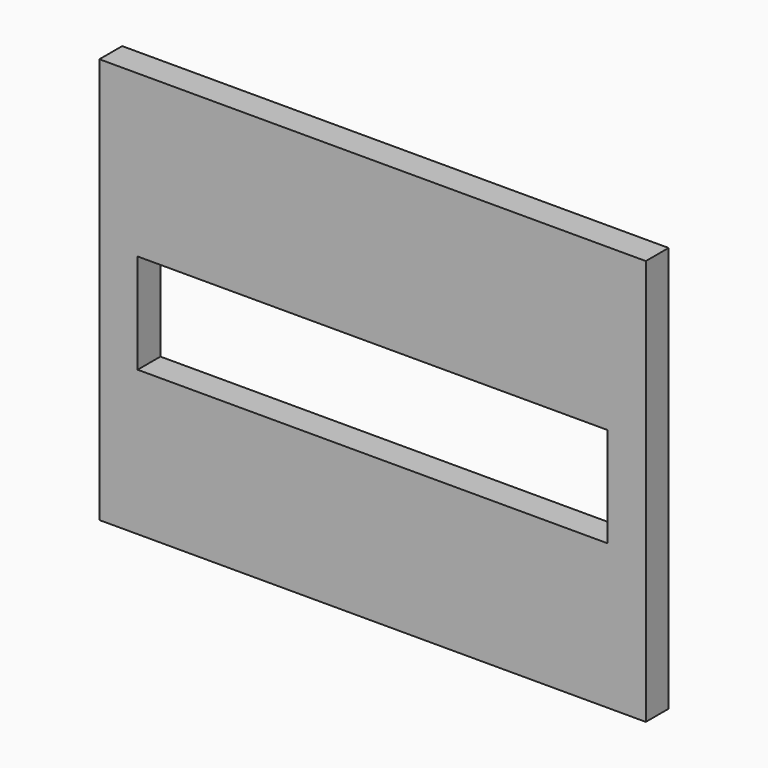
from build123d import *

# Parameters (mm, degrees)
F0_W     = 8.534398
F0_H     = 22.250396
F1_DEPTH = 6.35


with BuildPart() as f1:
    # F0 (on Front) → F1 (new body)
    with BuildSketch(Plane.XZ):
        Polygon((60.959999, 46.482004), (-60.959999, 46.482004), (-60.959999, 10.515597), (-52.425601, 10.515597), (52.425601, 10.515597), (60.959999, 10.515597), align=None)
        with Locations((-56.6928, -0.609601)):
            Rectangle(F0_W, F0_H)
        with Locations((56.6928, -0.609601)):
            Rectangle(F0_W, F0_H)
        Polygon((-52.425601, -11.734799), (-60.959999, -11.734799), (-60.959999, -44.0436), (60.959999, -44.0436), (60.959999, -11.734799), (52.425601, -11.734799), align=None)
    extrude(amount=F1_DEPTH)


solid = f1.part
